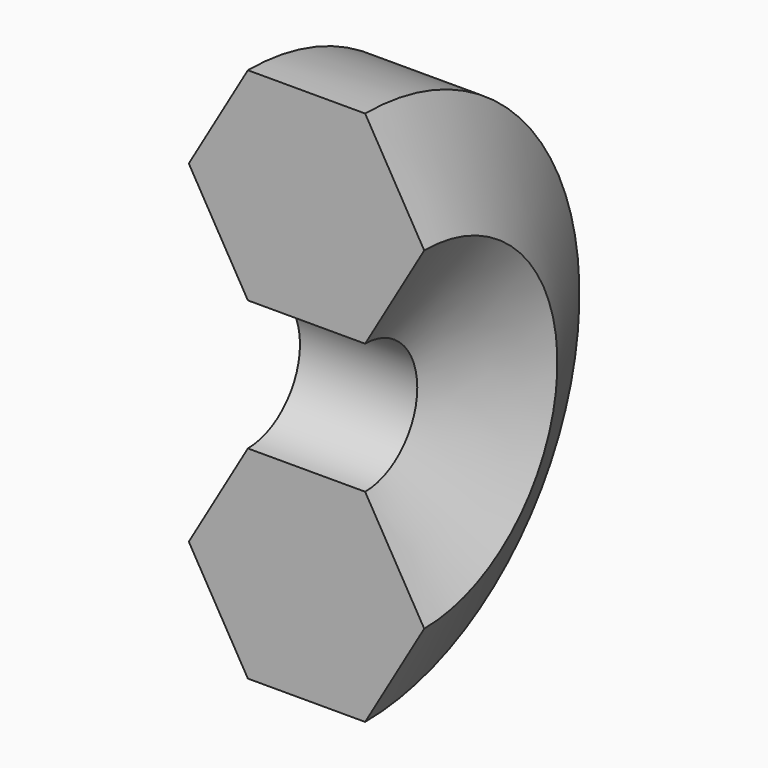
from build123d import *

# Parameters (mm, degrees)
F2_ANGLE = 180


with BuildPart() as f2:
    # F0 (on Front) → F2 (revolve)
    with BuildSketch(Plane.XZ):
        Polygon((42.950819, 0), (-48.825024, 0), (-25.797102, -39.497256), (19.922898, -39.497256), align=None)
        Polygon((-25.797102, 39.497256), (-48.825024, 0), (42.950819, 0), (19.922898, 39.497256), align=None)
    revolve(axis=Axis((-2.501527, 0, 64.897256), (1, 0, 0)), revolution_arc=F2_ANGLE)


solid = f2.part
